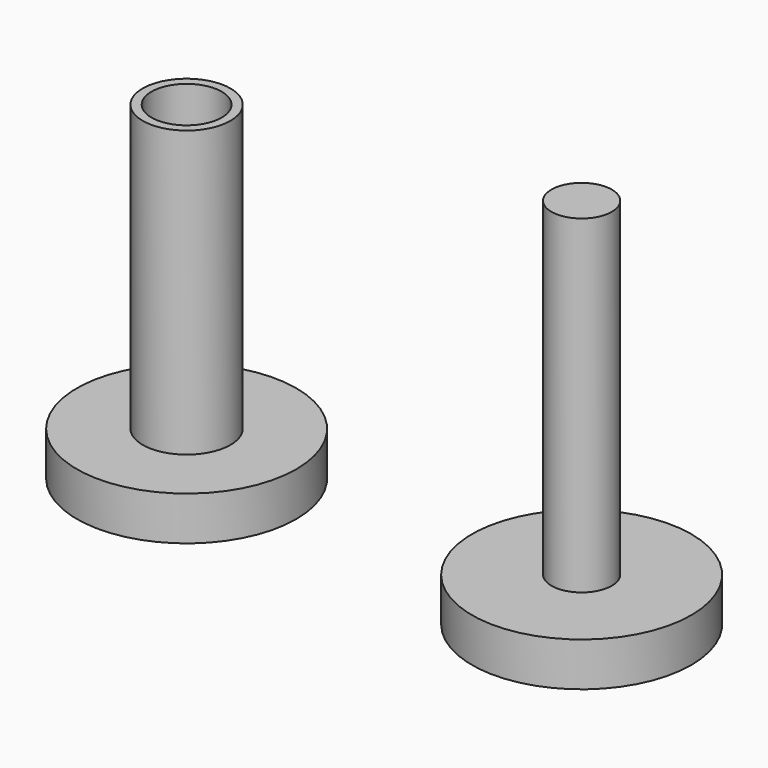
from build123d import *

# Parameters (mm, degrees)
F0_R     = 5
F1_DEPTH = 2
F2_R     = 2
F3_DEPTH = 13
F4_R     = 1.6
F5_DEPTH = 15.001
F6_R     = 5
F7_DEPTH = 2
F8_R     = 1.375
F9_DEPTH = 15


with BuildPart() as f1:
    # F0 (on Top) → F1 (new body)
    with BuildSketch(Plane.XY):
        Circle(F0_R)
    extrude(amount=F1_DEPTH)

    # F2 (on face) → F3 (join)
    with BuildSketch(Plane.XY.offset(2)):
        Circle(F2_R)
    extrude(amount=F3_DEPTH)

    # F4 (on face) → F5 (cut, through all)
    with BuildSketch(Plane.XY.offset(15)):
        Circle(F4_R)
    extrude(amount=-F5_DEPTH, mode=Mode.SUBTRACT)


with BuildPart() as f7:
    # F6 (on Top) → F7 (new body)
    with BuildSketch(Plane.XY):
        with Locations((18, 0)):
            Circle(F6_R)
    extrude(amount=F7_DEPTH)

    # F8 (on face) → F9 (join)
    with BuildSketch(Plane.XY.offset(2)):
        with Locations((18, 0)):
            Circle(F8_R)
    extrude(amount=F9_DEPTH)


solid = Compound([f1.part, f7.part])
